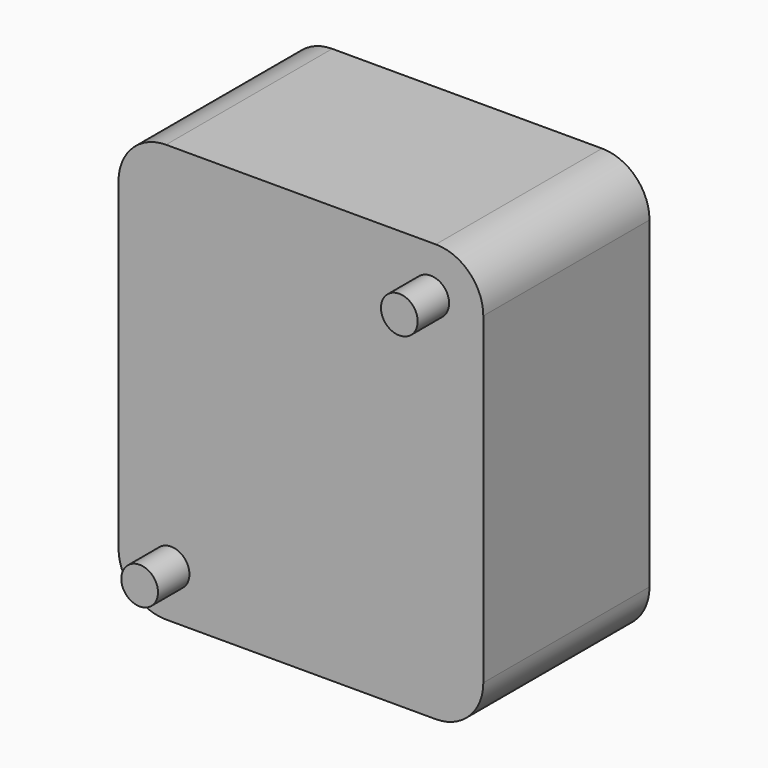
from build123d import *

# Parameters (mm, degrees)
CYLINDER006_R     = 0.58
CYLINDER006_DEPTH = 1.24
BOX013_W          = 11.52
BOX013_H          = 6.56
BOX013_DEPTH      = 13.2
FILLET011_R       = 1.5
CYLINDER007_R     = 0.58
CYLINDER007_DEPTH = 1.24


with BuildPart() as cylinder006:
    # Cylinder006 → Cylinder006 (new body)
    with BuildSketch(Plane(origin=(-4.1, 0, 1.5), x_dir=(1, 0, 0), z_dir=(0, -1, 0))):
        Circle(CYLINDER006_R)
    extrude(amount=CYLINDER006_DEPTH)


with BuildPart() as fusion002:
    # Box013 → Box013 (new body)
    with BuildSketch(Plane(origin=(-5.76, 0, 0), x_dir=(1, 0, 0), z_dir=(0, 0, 1))):
        with Locations((5.76, 3.28)):
            Rectangle(BOX013_W, BOX013_H)
    extrude(amount=BOX013_DEPTH)

    # Fillet011
    fillet011_edges = [fusion002.edges().sort_by_distance(p)[0] for p in [
        (-5.76, 3.28, 13.2),
        (-5.76, 3.28, 0),
        (5.76, 3.28, 13.2),
        (5.76, 3.28, 0),
    ]]
    fillet(fillet011_edges, radius=FILLET011_R)

    # Fusion002: union Cylinder006
    add(cylinder006.part)


with BuildPart() as encoderbody:
    # Cylinder007 → Cylinder007 (new body)
    with BuildSketch(Plane(origin=(4.1, 0, 11.7), x_dir=(1, 0, 0), z_dir=(0, -1, 0))):
        Circle(CYLINDER007_R)
    extrude(amount=CYLINDER007_DEPTH)

    # Fusion003: union Fusion002
    add(fusion002.part)


solid = encoderbody.part
